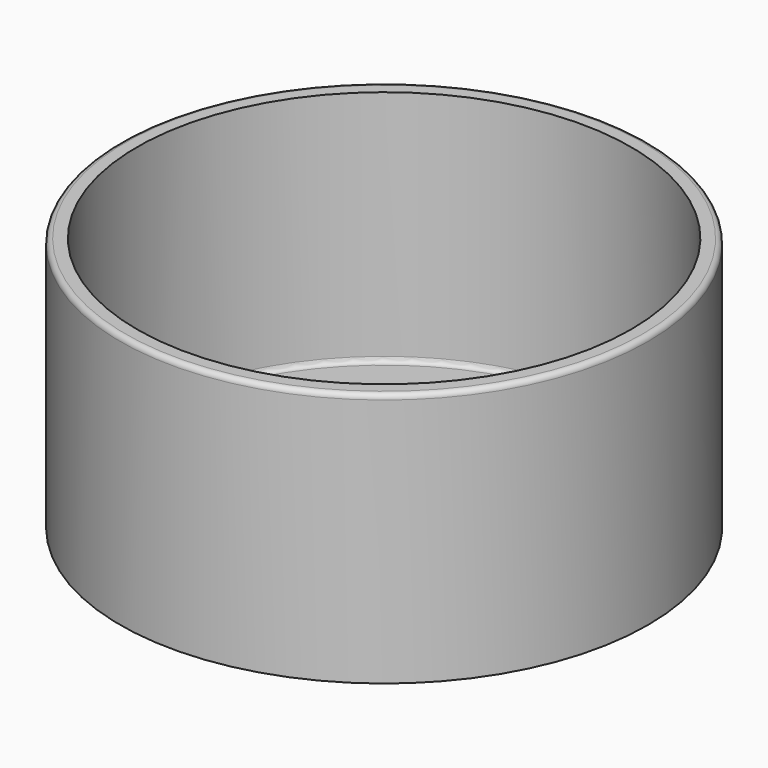
from build123d import *

# Parameters (mm, degrees)
F0_R     = 39.497
F1_DEPTH = 38.1
F2_R     = 36.957
F3_DEPTH = 35.56
F4_R     = 0.762
F5_R     = 0.762
F7_DEPTH = 25.4


with BuildPart() as f1:
    # F0 (on Top) → F1 (new body)
    with BuildSketch(Plane.XY):
        Circle(F0_R)
    extrude(amount=F1_DEPTH)

    # F2 (on face) → F3 (cut)
    with BuildSketch(Plane.XY.offset(38.1)):
        Circle(F2_R)
    extrude(amount=-F3_DEPTH, mode=Mode.SUBTRACT)

    # F4
    f4_edges = [f1.edges().sort_by_distance(p)[0] for p in [
        (-36.957, 0, 2.54),
    ]]
    fillet(f4_edges, radius=F4_R)

    # F5
    f5_edges = [f1.edges().sort_by_distance(p)[0] for p in [
        (-39.497, 0, 38.1),
    ]]
    fillet(f5_edges, radius=F5_R)

    # F6 (on face) → F7 (cut)
    with BuildSketch(Plane(origin=(0, 0, 0), x_dir=(1, 0, 0), z_dir=(0, 0, -1))):
        with BuildLine():
            Line((0, -25.019), (0, -30.353))
            Line((0, -30.353), (0, -35.687))
            ThreePointArc((0, -35.687), (3.771708, -34.124708), (5.334, -30.353))
            ThreePointArc((5.334, -30.353), (3.771708, -26.581292), (0, -25.019))
        make_face()
        with BuildLine():
            Line((0, -35.687), (0, -30.353))
            Line((0, -30.353), (0, -25.019))
            ThreePointArc((0, -25.019), (-5.334, -30.353), (0, -35.687))
        make_face()
    extrude(amount=-F7_DEPTH, mode=Mode.SUBTRACT)


solid = f1.part
